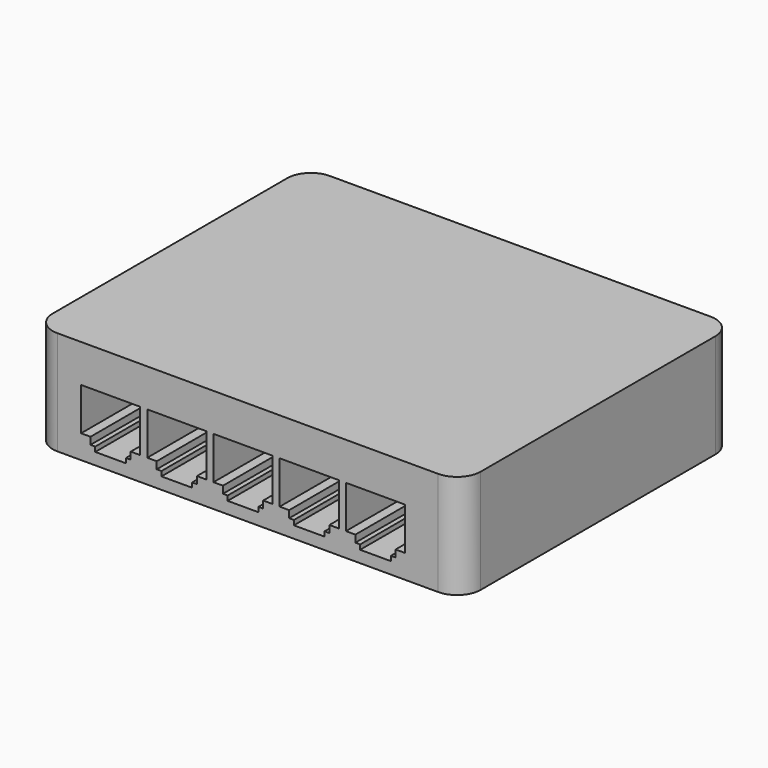
from build123d import *

# Parameters (mm, degrees)
F1_DEPTH = 22
F3_DEPTH = 20


with BuildPart() as f1:
    # F0 (on Top) → F1 (new body)
    with BuildSketch(Plane.XY):
        with BuildLine():
            Line((-40.25, -36), (40.25, -36))
            ThreePointArc((40.25, -36), (43.785534, -34.535534), (45.25, -31))
            Line((45.25, -31), (45.25, 31))
            ThreePointArc((45.25, 31), (43.785534, 34.535534), (40.25, 36))
            Line((40.25, 36), (-40.25, 36))
            ThreePointArc((-40.25, 36), (-43.785534, 34.535534), (-45.25, 31))
            Line((-45.25, 31), (-45.25, -31))
            ThreePointArc((-45.25, -31), (-43.785534, -34.535534), (-40.25, -36))
        make_face()
    extrude(amount=F1_DEPTH)

    # F2 (on face) → F3 (cut)
    with BuildSketch(Plane.XZ.offset(36)):
        Polygon((-22.75, 14), (-35.25, 14), (-35.25, 5), (-33.25, 5), (-33.25, 3.5), (-32.25, 3.5), (-32.25, 2.5), (-25.75, 2.5), (-25.75, 3.5), (-24.75, 3.5), (-24.75, 5), (-22.75, 5), align=None)
        Polygon((-8.75, 14), (-21.25, 14), (-21.25, 5), (-19.25, 5), (-19.25, 3.5), (-18.25, 3.5), (-18.25, 2.5), (-11.75, 2.5), (-11.75, 3.5), (-10.75, 3.5), (-10.75, 5), (-8.75, 5), align=None)
        Polygon((5.25, 14), (-7.25, 14), (-7.25, 5), (-5.25, 5), (-5.25, 3.5), (-4.25, 3.5), (-4.25, 2.5), (2.25, 2.5), (2.25, 3.5), (3.25, 3.5), (3.25, 5), (5.25, 5), align=None)
        Polygon((19.25, 14), (6.75, 14), (6.75, 5), (8.75, 5), (8.75, 3.5), (9.75, 3.5), (9.75, 2.5), (16.25, 2.5), (16.25, 3.5), (17.25, 3.5), (17.25, 5), (19.25, 5), align=None)
        Polygon((33.25, 14), (20.75, 14), (20.75, 5), (22.75, 5), (22.75, 3.5), (23.75, 3.5), (23.75, 2.5), (30.25, 2.5), (30.25, 3.5), (31.25, 3.5), (31.25, 5), (33.25, 5), align=None)
    extrude(amount=-F3_DEPTH, mode=Mode.SUBTRACT)


solid = f1.part
